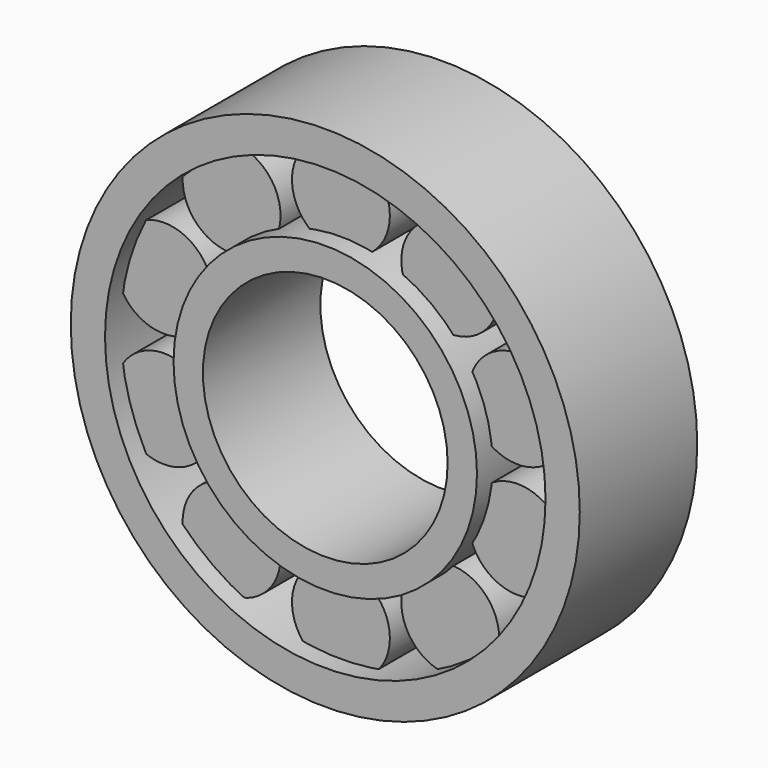
from build123d import *

# Parameters (mm, degrees)
F0_R     = 26
F0_R_2   = 22.5
F1_DEPTH = 7.5
F0_R_3   = 15.5
F0_R_4   = 12.5
F2_R     = 5
F3_DEPTH = 5.5


with BuildPart() as f1:
    # F0 (on Front) → F1 (new body, symmetric)
    with BuildSketch(Plane.XZ):
        Circle(F0_R)
        Circle(F0_R_2, mode=Mode.SUBTRACT)
    extrude(amount=F1_DEPTH, both=True)


with BuildPart() as f1b:
    # F0 (on Front) → F1, piece 2 (new body, symmetric)
    with BuildSketch(Plane.XZ):
        Circle(F0_R_3)
        Circle(F0_R_4, mode=Mode.SUBTRACT)
    extrude(amount=F1_DEPTH, both=True)


with BuildPart() as f3:
    # F2 (on Front) → F3 (new body, symmetric)
    with BuildSketch(Plane.XZ):
        with Locations((0, 19)):
            Circle(F2_R)
    extrude(amount=F3_DEPTH, both=True)


with BuildPart() as f3b:
    # F2 (on Front) → F3, piece 2 (new body, symmetric)
    with BuildSketch(Plane.XZ):
        with Locations((-11.1679197936, 15.3713228931)):
            Circle(F2_R)
    extrude(amount=F3_DEPTH, both=True)


with BuildPart() as f3c:
    # F2 (on Front) → F3, piece 3 (new body, symmetric)
    with BuildSketch(Plane.XZ):
        with Locations((-18.0700738096, 5.8713228931)):
            Circle(F2_R)
    extrude(amount=F3_DEPTH, both=True)


with BuildPart() as f3d:
    # F2 (on Front) → F3, piece 4 (new body, symmetric)
    with BuildSketch(Plane.XZ):
        with Locations((-18.0700738096, -5.8713228931)):
            Circle(F2_R)
    extrude(amount=F3_DEPTH, both=True)


with BuildPart() as f3e:
    # F2 (on Front) → F3, piece 5 (new body, symmetric)
    with BuildSketch(Plane.XZ):
        with Locations((-11.1679197936, -15.3713228931)):
            Circle(F2_R)
    extrude(amount=F3_DEPTH, both=True)


with BuildPart() as f3f:
    # F2 (on Front) → F3, piece 6 (new body, symmetric)
    with BuildSketch(Plane.XZ):
        with Locations((0, -19)):
            Circle(F2_R)
    extrude(amount=F3_DEPTH, both=True)


with BuildPart() as f3g:
    # F2 (on Front) → F3, piece 7 (new body, symmetric)
    with BuildSketch(Plane.XZ):
        with Locations((11.1679197936, -15.3713228931)):
            Circle(F2_R)
    extrude(amount=F3_DEPTH, both=True)


with BuildPart() as f3h:
    # F2 (on Front) → F3, piece 8 (new body, symmetric)
    with BuildSketch(Plane.XZ):
        with Locations((18.0700738096, -5.8713228931)):
            Circle(F2_R)
    extrude(amount=F3_DEPTH, both=True)


with BuildPart() as f3i:
    # F2 (on Front) → F3, piece 9 (new body, symmetric)
    with BuildSketch(Plane.XZ):
        with Locations((18.0700738096, 5.8713228931)):
            Circle(F2_R)
    extrude(amount=F3_DEPTH, both=True)


with BuildPart() as f3j:
    # F2 (on Front) → F3, piece 10 (new body, symmetric)
    with BuildSketch(Plane.XZ):
        with Locations((11.1679197936, 15.3713228931)):
            Circle(F2_R)
    extrude(amount=F3_DEPTH, both=True)


solid = Compound([f1.part, f1b.part, f3.part, f3b.part, f3c.part, f3d.part, f3e.part, f3f.part, f3g.part, f3h.part, f3i.part, f3j.part])
